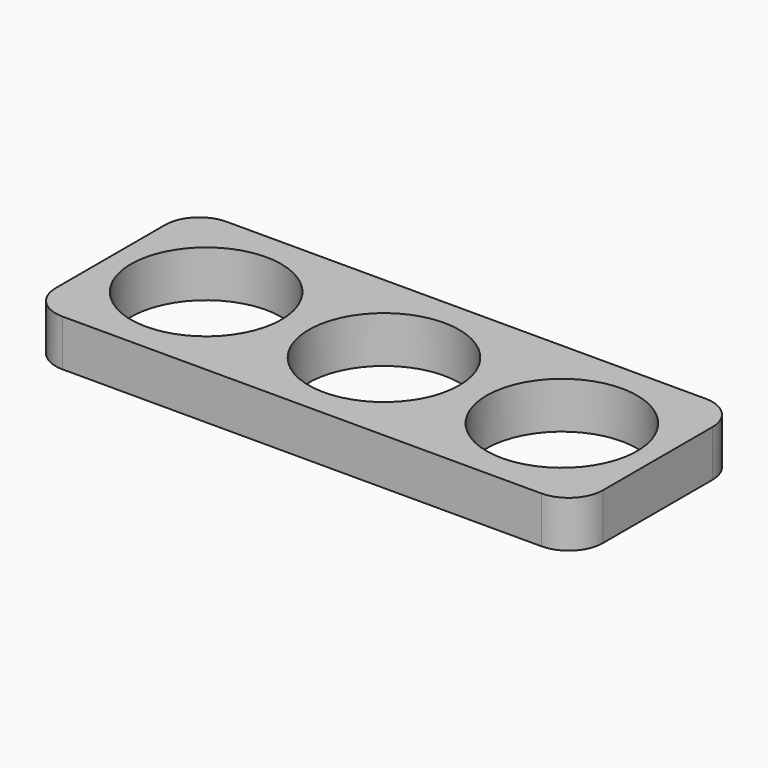
from build123d import *

# Parameters (mm, degrees)
F0_R     = 11
F0_W     = 80
F0_H     = 30
F1_DEPTH = 6.8
F2_R     = 11
F3_DEPTH = 25
F4_R     = 5


with BuildPart() as f1:
    # F0 (on Top) → F1 (new body)
    with BuildSketch(Plane.XY):
        with Locations((-26, 0)):
            Circle(F0_R)
        with BuildLine():
            ThreePointArc((37, 0), (26, 11), (15, 0))
            ThreePointArc((15, 0), (26, -11), (37, 0))
        make_face()
        with BuildLine():
            ThreePointArc((-11, 0), (0, -11), (11, 0))
            Line((11, 0), (0, 0))
            Line((0, 0), (-11, 0))
        make_face()
        with BuildLine():
            Line((0, 0), (11, 0))
            ThreePointArc((11, 0), (0, 11), (-11, 0))
            Line((-11, 0), (0, 0))
        make_face()
        Rectangle(F0_W, F0_H)
        with Locations((-26, 0)):
            Circle(F0_R, mode=Mode.SUBTRACT)
        with BuildLine():
            ThreePointArc((-11, 0), (0, 11), (11, 0))
            ThreePointArc((11, 0), (0, -11), (-11, 0))
        make_face(mode=Mode.SUBTRACT)
        with BuildLine():
            ThreePointArc((37, 0), (26, -11), (15, 0))
            ThreePointArc((15, 0), (26, 11), (37, 0))
        make_face(mode=Mode.SUBTRACT)
    extrude(amount=F1_DEPTH)

    # F2 (on face) → F3 (cut)
    with BuildSketch(Plane(origin=(0, 0, 0), x_dir=(1, 0, 0), z_dir=(0, 0, -1))):
        with Locations((26, 0)):
            Circle(F2_R)
        Circle(F2_R)
        with Locations((-26, 0)):
            Circle(F2_R)
    extrude(amount=-F3_DEPTH, mode=Mode.SUBTRACT)

    # F4
    f4_edges = [f1.edges().sort_by_distance(p)[0] for p in [
        (-40, -15, 3.4),
        (-40, 15, 3.4),
        (40, 15, 3.4),
        (40, -15, 3.4),
    ]]
    fillet(f4_edges, radius=F4_R)


solid = f1.part
